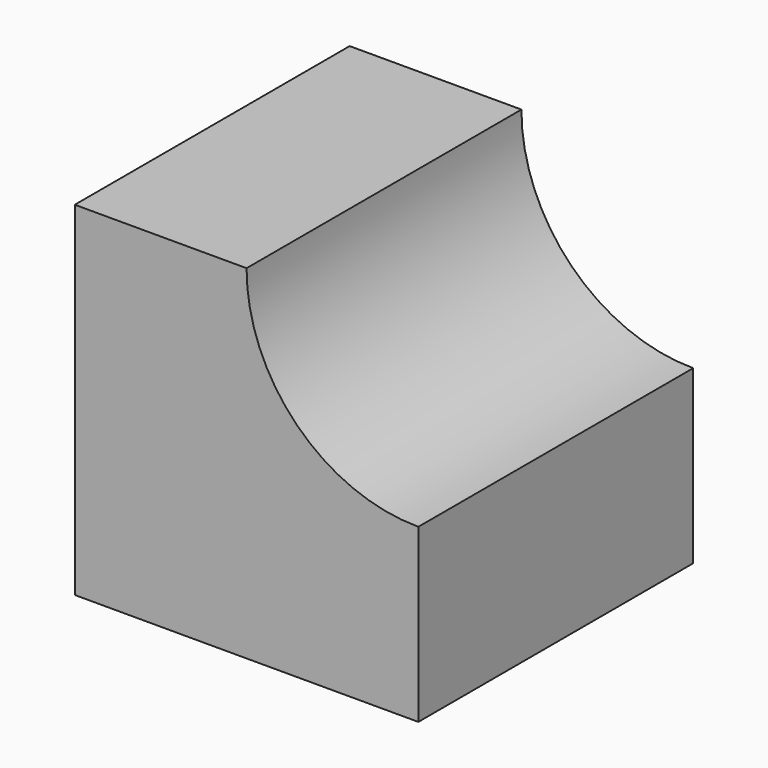
from build123d import *

# Parameters (mm, degrees)
F1_DEPTH = 50.8
F3_DEPTH = 50.8


with BuildPart() as f1:
    # F0 (on Front) → F1 (new body)
    with BuildSketch(Plane.XZ):
        with BuildLine():
            Line((-50.8, 0), (0, 0))
            Line((0, 0), (0, 25.4))
            ThreePointArc((0, 25.4), (-17.970042, 32.829958), (-25.4, 50.8))
            Line((-25.4, 50.8), (-50.8, 50.8))
            Line((-50.8, 50.8), (-50.8, 0))
        make_face()
        with BuildLine():
            ThreePointArc((-25.4, 50.8), (-17.970042, 32.829958), (0, 25.4))
            Line((0, 25.4), (0, 50.8))
            Line((0, 50.8), (-25.4, 50.8))
        make_face()
    extrude(amount=F1_DEPTH)

    # F2 (on face) → F3 (cut)
    with BuildSketch(Plane.XZ.offset(50.8)):
        with BuildLine():
            Line((0, 50.8), (-25.4, 50.8))
            ThreePointArc((-25.4, 50.8), (-17.980258, 32.819742), (0, 25.4))
            Line((0, 25.4), (0, 50.8))
        make_face()
    extrude(amount=-F3_DEPTH, mode=Mode.SUBTRACT)


solid = f1.part
